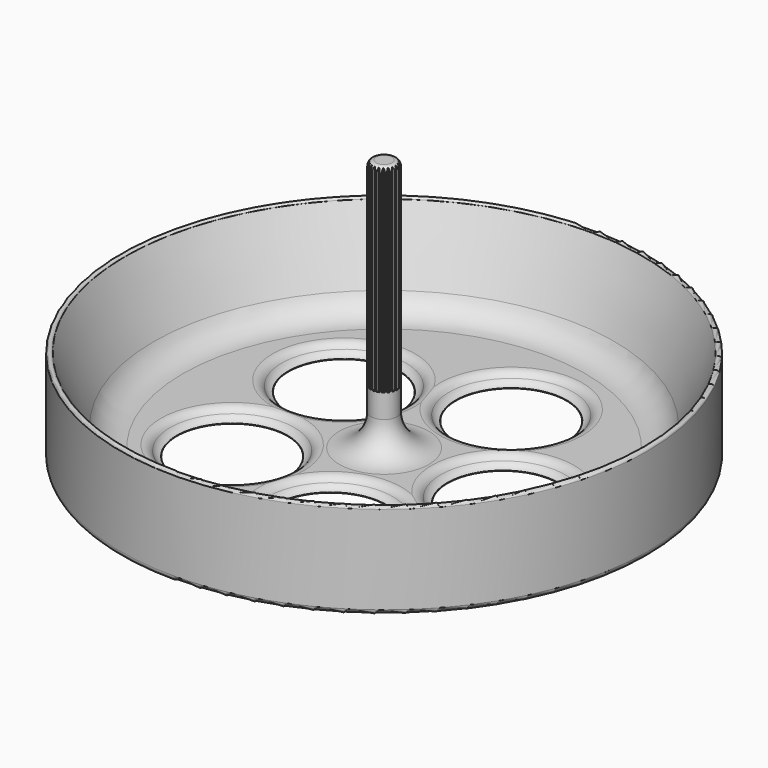
from build123d import *

# Parameters (mm, degrees)
F3_COUNT = 5
F6_START = 15.875
F6_DEPTH = 49.65701


with BuildPart() as f1:
    # F0 (on Front) → F1 (revolve)
    with BuildSketch(Plane.XZ):
        with BuildLine():
            Line((0, 63.5), (0, 1.905))
            Line((0, 1.905), (1.905, 0))
            Line((1.905, 0), (15.24, 0))
            Line((15.24, 0), (15.24, 0.0144717958))
            ThreePointArc((15.24, 0.0144717958), (15.2231166939, 0.0644956683), (15.1793727967, 0.0940575576))
            ThreePointArc((15.1793727967, 0.0940575576), (14.2824105138, 0.5397634692), (13.6183076923, 1.2895384615))
            ThreePointArc((13.6183076923, 1.2895384615), (12.6901929034, 2.205337581), (11.43, 2.54))
            Line((11.43, 2.54), (10.795, 2.54))
            ThreePointArc((10.795, 2.54), (5.4068463274, 4.7718463274), (3.175, 10.16))
            Line((3.175, 10.16), (3.175, 62.23))
            ThreePointArc((3.175, 62.23), (2.8030256121, 63.1280256121), (1.905, 63.5))
            Line((1.905, 63.5), (0, 63.5))
        make_face()
        with BuildLine():
            Line((15.24, 0.0144717958), (15.24, 0))
            Line((15.24, 0), (15.875, 0))
            Line((15.875, 0), (28.575, 0))
            Line((28.575, 0), (28.575, 2.54))
            Line((28.575, 2.54), (15.24, 2.54))
            Line((15.24, 2.54), (11.43, 2.54))
            ThreePointArc((11.43, 2.54), (12.6901929034, 2.205337581), (13.6183076923, 1.2895384615))
            ThreePointArc((13.6183076923, 1.2895384615), (14.2824105138, 0.5397634692), (15.1793727967, 0.0940575576))
            ThreePointArc((15.1793727967, 0.0940575576), (15.2231166939, 0.0644956683), (15.24, 0.0144717958))
        make_face()
        with BuildLine():
            Line((28.575, 2.54), (28.575, 0))
            Line((28.575, 0), (41.275, 0))
            Line((41.275, 0), (41.91, 0))
            Line((41.91, 0), (41.91, 0.0144717958))
            ThreePointArc((41.91, 0.0144717958), (41.9268833061, 0.0644956683), (41.9706272033, 0.0940575576))
            ThreePointArc((41.9706272033, 0.0940575576), (42.8675894862, 0.5397634692), (43.5316923077, 1.2895384615))
            ThreePointArc((43.5316923077, 1.2895384615), (44.4598070966, 2.205337581), (45.72, 2.54))
            Line((45.72, 2.54), (41.91, 2.54))
            Line((41.91, 2.54), (28.575, 2.54))
        make_face()
        with BuildLine():
            Line((41.91, 0.0144717958), (41.91, 0))
            Line((41.91, 0), (62.23, 0))
            ThreePointArc((62.23, 0), (63.1280256121, 0.3719743879), (63.5, 1.27))
            Line((63.5, 1.27), (63.5, 22.5593041456))
            ThreePointArc((63.5, 22.5593041456), (63.0035270349, 23.1790099312), (62.2904401241, 22.8296852637))
            Line((62.2904401241, 22.8296852637), (55.3447347432, 7.084518081))
            ThreePointArc((55.3447347432, 7.084518081), (52.5340312179, 3.7764440857), (48.3729479589, 2.54))
            Line((48.3729479589, 2.54), (45.72, 2.54))
            ThreePointArc((45.72, 2.54), (44.4598070966, 2.205337581), (43.5316923077, 1.2895384615))
            ThreePointArc((43.5316923077, 1.2895384615), (42.8675894862, 0.5397634692), (41.9706272033, 0.0940575576))
            ThreePointArc((41.9706272033, 0.0940575576), (41.9268833061, 0.0644956683), (41.91, 0.0144717958))
        make_face()
    revolve(axis=Axis((0, 0, 31.75), (0, 0, 1)))


with BuildPart() as f2:
    # F0 (on Front) → F2 (revolve)
    with BuildSketch(Plane.XZ):
        with BuildLine():
            Line((15.24, 0.0144717958), (15.24, 0))
            Line((15.24, 0), (15.875, 0))
            Line((15.875, 0), (28.575, 0))
            Line((28.575, 0), (28.575, 2.54))
            Line((28.575, 2.54), (15.24, 2.54))
            Line((15.24, 2.54), (11.43, 2.54))
            ThreePointArc((11.43, 2.54), (12.6901929034, 2.205337581), (13.6183076923, 1.2895384615))
            ThreePointArc((13.6183076923, 1.2895384615), (14.2824105138, 0.5397634692), (15.1793727967, 0.0940575576))
            ThreePointArc((15.1793727967, 0.0940575576), (15.2231166939, 0.0644956683), (15.24, 0.0144717958))
        make_face()
    revolve(axis=Axis((28.575, 0, 5.4818876088), (0, 0, 1)))


with BuildPart() as f3_1:
    # F3: instance of F2
    add(f2.part.rotate(Axis((0, 0, 31.75), (0, 0, 1)), 1 * 360 / F3_COUNT))


with BuildPart() as f3_2:
    # F3: instance of F2
    add(f2.part.rotate(Axis((0, 0, 31.75), (0, 0, 1)), 2 * 360 / F3_COUNT))


with BuildPart() as f3_3:
    # F3: instance of F2
    add(f2.part.rotate(Axis((0, 0, 31.75), (0, 0, 1)), 3 * 360 / F3_COUNT))


with BuildPart() as f3_4:
    # F3: instance of F2
    add(f2.part.rotate(Axis((0, 0, 31.75), (0, 0, 1)), 4 * 360 / F3_COUNT))


with BuildPart() as f1_1:
    add(f1.part)

    # F4: cut F2, F3_1, F3_2, F3_3, F3_4
    add(f2.part, mode=Mode.SUBTRACT)
    add(f3_1.part, mode=Mode.SUBTRACT)
    add(f3_2.part, mode=Mode.SUBTRACT)
    add(f3_3.part, mode=Mode.SUBTRACT)
    add(f3_4.part, mode=Mode.SUBTRACT)


with BuildPart() as f6:
    # F5 (on Top) → F6 (new body)
    with BuildSketch(Plane.XY.offset(F6_START)):
        with BuildLine():
            Line((-2.1550820953, 1.5657587936), (-2.3745431524, 2.1076455626))
            ThreePointArc((-2.3745431524, 2.1076455626), (-2.5686289571, 1.866218176), (-2.7382642343, 1.6070264413))
            Line((-2.7382642343, 1.6070264413), (-2.1550820953, 1.5657587936))
        make_face()
    extrude(amount=F6_DEPTH)


with BuildPart() as f6b:
    # F5 (on Top) → F6, piece 2 (new body)
    with BuildSketch(Plane.XY.offset(F6_START)):
        with BuildLine():
            Line((-2.5334509462, 0.8231681119), (-2.9096230352, 1.2707158584))
            ThreePointArc((-2.9096230352, 1.2707158584), (-3.0196044392, 0.9811289571), (-3.1008425242, 0.6822027854))
            Line((-3.1008425242, 0.6822027854), (-2.5334509462, 0.8231681119))
        make_face()
    extrude(amount=F6_DEPTH)


with BuildPart() as f6c:
    # F5 (on Top) → F6, piece 3 (new body)
    with BuildSketch(Plane.XY.offset(F6_START)):
        with BuildLine():
            Line((-2.6638279669, 0), (-3.1598887429, 0.3093996324))
            ThreePointArc((-3.1598887429, 0.3093996324), (-3.175, 0), (-3.1598887429, -0.3093996324))
            Line((-3.1598887429, -0.3093996324), (-2.6638279669, 0))
        make_face()
    extrude(amount=F6_DEPTH)


with BuildPart() as f6d:
    # F5 (on Top) → F6, piece 4 (new body)
    with BuildSketch(Plane.XY.offset(F6_START)):
        with BuildLine():
            ThreePointArc((-3.1008425242, -0.6822027854), (-3.0196044392, -0.9811289571), (-2.9096230352, -1.2707158584))
            Line((-2.9096230352, -1.2707158584), (-2.5334509462, -0.8231681119))
            Line((-2.5334509462, -0.8231681119), (-3.1008425242, -0.6822027854))
        make_face()
    extrude(amount=F6_DEPTH)


with BuildPart() as f6e:
    # F5 (on Top) → F6, piece 5 (new body)
    with BuildSketch(Plane.XY.offset(F6_START)):
        with BuildLine():
            ThreePointArc((-2.7382642343, -1.6070264413), (-2.5686289571, -1.866218176), (-2.3745431524, -2.1076455626))
            Line((-2.3745431524, -2.1076455626), (-2.1550820953, -1.5657587936))
            Line((-2.1550820953, -1.5657587936), (-2.7382642343, -1.6070264413))
        make_face()
    extrude(amount=F6_DEPTH)


with BuildPart() as f6f:
    # F5 (on Top) → F6, piece 6 (new body)
    with BuildSketch(Plane.XY.offset(F6_START)):
        with BuildLine():
            ThreePointArc((-2.1076455626, -2.3745431524), (-1.866218176, -2.5686289571), (-1.6070264413, -2.7382642343))
            Line((-1.6070264413, -2.7382642343), (-1.5657587936, -2.1550820953))
            Line((-1.5657587936, -2.1550820953), (-2.1076455626, -2.3745431524))
        make_face()
    extrude(amount=F6_DEPTH)


with BuildPart() as f6g:
    # F5 (on Top) → F6, piece 7 (new body)
    with BuildSketch(Plane.XY.offset(F6_START)):
        with BuildLine():
            ThreePointArc((-1.2707158584, -2.9096230352), (-0.9811289571, -3.0196044392), (-0.6822027854, -3.1008425242))
            Line((-0.6822027854, -3.1008425242), (-0.8231681119, -2.5334509462))
            Line((-0.8231681119, -2.5334509462), (-1.2707158584, -2.9096230352))
        make_face()
    extrude(amount=F6_DEPTH)


with BuildPart() as f6h:
    # F5 (on Top) → F6, piece 8 (new body)
    with BuildSketch(Plane.XY.offset(F6_START)):
        with BuildLine():
            ThreePointArc((-0.3093996324, -3.1598887429), (0, -3.175), (0.3093996324, -3.1598887429))
            Line((0.3093996324, -3.1598887429), (0, -2.6638279669))
            Line((0, -2.6638279669), (-0.3093996324, -3.1598887429))
        make_face()
    extrude(amount=F6_DEPTH)


with BuildPart() as f6i:
    # F5 (on Top) → F6, piece 9 (new body)
    with BuildSketch(Plane.XY.offset(F6_START)):
        with BuildLine():
            ThreePointArc((0.6822027854, -3.1008425242), (0.9811289571, -3.0196044392), (1.2707158584, -2.9096230352))
            Line((1.2707158584, -2.9096230352), (0.8231681119, -2.5334509462))
            Line((0.8231681119, -2.5334509462), (0.6822027854, -3.1008425242))
        make_face()
    extrude(amount=F6_DEPTH)


with BuildPart() as f6j:
    # F5 (on Top) → F6, piece 10 (new body)
    with BuildSketch(Plane.XY.offset(F6_START)):
        with BuildLine():
            ThreePointArc((1.6070264413, -2.7382642343), (1.866218176, -2.5686289571), (2.1076455626, -2.3745431524))
            Line((2.1076455626, -2.3745431524), (1.5657587936, -2.1550820953))
            Line((1.5657587936, -2.1550820953), (1.6070264413, -2.7382642343))
        make_face()
    extrude(amount=F6_DEPTH)


with BuildPart() as f6k:
    # F5 (on Top) → F6, piece 11 (new body)
    with BuildSketch(Plane.XY.offset(F6_START)):
        with BuildLine():
            ThreePointArc((2.3745431524, -2.1076455626), (2.5686289571, -1.866218176), (2.7382642343, -1.6070264413))
            Line((2.7382642343, -1.6070264413), (2.1550820953, -1.5657587936))
            Line((2.1550820953, -1.5657587936), (2.3745431524, -2.1076455626))
        make_face()
    extrude(amount=F6_DEPTH)


with BuildPart() as f6l:
    # F5 (on Top) → F6, piece 12 (new body)
    with BuildSketch(Plane.XY.offset(F6_START)):
        with BuildLine():
            ThreePointArc((2.9096230352, -1.2707158584), (3.0196044392, -0.9811289571), (3.1008425242, -0.6822027854))
            Line((3.1008425242, -0.6822027854), (2.5334509462, -0.8231681119))
            Line((2.5334509462, -0.8231681119), (2.9096230352, -1.2707158584))
        make_face()
    extrude(amount=F6_DEPTH)


with BuildPart() as f6m:
    # F5 (on Top) → F6, piece 13 (new body)
    with BuildSketch(Plane.XY.offset(F6_START)):
        with BuildLine():
            ThreePointArc((3.1598887429, -0.3093996324), (3.1712199355, -0.1548842169), (3.175, 0))
            ThreePointArc((3.175, 0), (3.1712199355, 0.1548842169), (3.1598887429, 0.3093996324))
            Line((3.1598887429, 0.3093996324), (2.6638279669, 0))
            Line((2.6638279669, 0), (3.1598887429, -0.3093996324))
        make_face()
    extrude(amount=F6_DEPTH)


with BuildPart() as f6n:
    # F5 (on Top) → F6, piece 14 (new body)
    with BuildSketch(Plane.XY.offset(F6_START)):
        with BuildLine():
            Line((2.5334509462, 0.8231681119), (3.1008425242, 0.6822027854))
            ThreePointArc((3.1008425242, 0.6822027854), (3.0196044392, 0.9811289571), (2.9096230352, 1.2707158584))
            Line((2.9096230352, 1.2707158584), (2.5334509462, 0.8231681119))
        make_face()
    extrude(amount=F6_DEPTH)


with BuildPart() as f6o:
    # F5 (on Top) → F6, piece 15 (new body)
    with BuildSketch(Plane.XY.offset(F6_START)):
        with BuildLine():
            Line((2.1550820953, 1.5657587936), (2.7382642343, 1.6070264413))
            ThreePointArc((2.7382642343, 1.6070264413), (2.5686289571, 1.866218176), (2.3745431524, 2.1076455626))
            Line((2.3745431524, 2.1076455626), (2.1550820953, 1.5657587936))
        make_face()
    extrude(amount=F6_DEPTH)


with BuildPart() as f6p:
    # F5 (on Top) → F6, piece 16 (new body)
    with BuildSketch(Plane.XY.offset(F6_START)):
        with BuildLine():
            Line((1.5657587936, 2.1550820953), (2.1076455626, 2.3745431524))
            ThreePointArc((2.1076455626, 2.3745431524), (1.866218176, 2.5686289571), (1.6070264413, 2.7382642343))
            Line((1.6070264413, 2.7382642343), (1.5657587936, 2.1550820953))
        make_face()
    extrude(amount=F6_DEPTH)


with BuildPart() as f6q:
    # F5 (on Top) → F6, piece 17 (new body)
    with BuildSketch(Plane.XY.offset(F6_START)):
        with BuildLine():
            Line((0.8231681119, 2.5334509462), (1.2707158584, 2.9096230352))
            ThreePointArc((1.2707158584, 2.9096230352), (0.9811289571, 3.0196044392), (0.6822027854, 3.1008425242))
            Line((0.6822027854, 3.1008425242), (0.8231681119, 2.5334509462))
        make_face()
    extrude(amount=F6_DEPTH)


with BuildPart() as f6r:
    # F5 (on Top) → F6, piece 18 (new body)
    with BuildSketch(Plane.XY.offset(F6_START)):
        with BuildLine():
            Line((0, 2.6638279669), (0.3093996324, 3.1598887429))
            ThreePointArc((0.3093996324, 3.1598887429), (0, 3.175), (-0.3093996324, 3.1598887429))
            Line((-0.3093996324, 3.1598887429), (0, 2.6638279669))
        make_face()
    extrude(amount=F6_DEPTH)


with BuildPart() as f6s:
    # F5 (on Top) → F6, piece 19 (new body)
    with BuildSketch(Plane.XY.offset(F6_START)):
        with BuildLine():
            Line((-0.8231681119, 2.5334509462), (-0.6822027854, 3.1008425242))
            ThreePointArc((-0.6822027854, 3.1008425242), (-0.9811289571, 3.0196044392), (-1.2707158584, 2.9096230352))
            Line((-1.2707158584, 2.9096230352), (-0.8231681119, 2.5334509462))
        make_face()
    extrude(amount=F6_DEPTH)


with BuildPart() as f6t:
    # F5 (on Top) → F6, piece 20 (new body)
    with BuildSketch(Plane.XY.offset(F6_START)):
        with BuildLine():
            Line((-1.5657587936, 2.1550820953), (-1.6070264413, 2.7382642343))
            ThreePointArc((-1.6070264413, 2.7382642343), (-1.866218176, 2.5686289571), (-2.1076455626, 2.3745431524))
            Line((-2.1076455626, 2.3745431524), (-1.5657587936, 2.1550820953))
        make_face()
    extrude(amount=F6_DEPTH)


with BuildPart() as f1_2:
    add(f1_1.part)

    # F7: cut F6n, F6o, F6p, F6q, F6r, F6s, F6t, F6, F6b, F6c, F6d, F6e, F6f, F6g, F6h, F6i, F6j, F6k, F6l, F6m
    add(f6n.part, mode=Mode.SUBTRACT)
    add(f6o.part, mode=Mode.SUBTRACT)
    add(f6p.part, mode=Mode.SUBTRACT)
    add(f6q.part, mode=Mode.SUBTRACT)
    add(f6r.part, mode=Mode.SUBTRACT)
    add(f6s.part, mode=Mode.SUBTRACT)
    add(f6t.part, mode=Mode.SUBTRACT)
    add(f6.part, mode=Mode.SUBTRACT)
    add(f6b.part, mode=Mode.SUBTRACT)
    add(f6c.part, mode=Mode.SUBTRACT)
    add(f6d.part, mode=Mode.SUBTRACT)
    add(f6e.part, mode=Mode.SUBTRACT)
    add(f6f.part, mode=Mode.SUBTRACT)
    add(f6g.part, mode=Mode.SUBTRACT)
    add(f6h.part, mode=Mode.SUBTRACT)
    add(f6i.part, mode=Mode.SUBTRACT)
    add(f6j.part, mode=Mode.SUBTRACT)
    add(f6k.part, mode=Mode.SUBTRACT)
    add(f6l.part, mode=Mode.SUBTRACT)
    add(f6m.part, mode=Mode.SUBTRACT)


solid = f1_2.part
